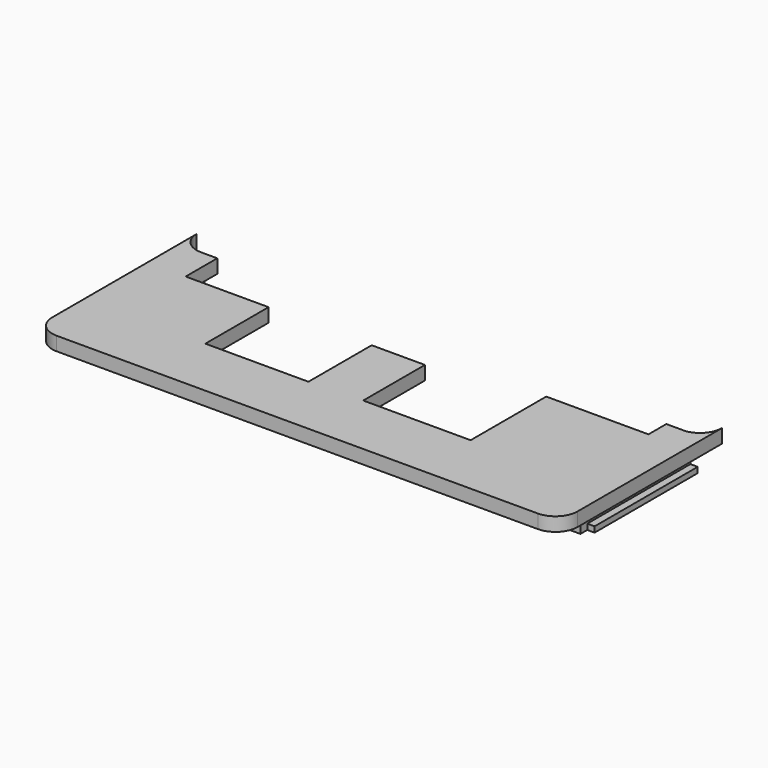
from build123d import *

# Parameters (mm, degrees)
PAD003_DEPTH  = 1.6
SKETCH011_W   = 1.3
SKETCH011_H   = 16
PAD004_DEPTH  = 2.25
SKETCH012_W   = 0.8
SKETCH012_H   = 0.65
SKETCH012_W_2 = 0.85
PAD005_DEPTH  = 15


with BuildPart() as part:
    # Sketch008 → Pad003 (new body)
    with BuildSketch(Plane.XY.offset(85)):
        with BuildLine():
            Line((30.57387, -6.02613), (30.57387, -27.02613))
            ThreePointArc((28, -29.6), (29.820001, -28.846131), (30.57387, -27.02613))
            Line((28, -29.6), (-28, -29.6))
            ThreePointArc((-30.57387, -27.02613), (-29.820001, -28.846131), (-28, -29.6))
            Line((-30.57387, -27.02613), (-30.57387, -6.02613))
            ThreePointArc((-30.57387, -6.02613), (-29.827263, -7.828603), (-28.02479, -8.575212))
            Line((-28.02479, -8.575212), (-26.12479, -8.575212))
            Line((-26.12479, -8.575212), (-26.12479, -13.175212))
            Line((-26.12479, -13.175212), (-16.47479, -13.175212))
            Line((-16.47479, -13.175212), (-16.47479, -22.375212))
            Line((-16.47479, -22.375212), (-4.47479, -22.375212))
            Line((-4.47479, -22.375212), (-4.47479, -13.175212))
            Line((-4.47479, -13.175212), (1.72521, -13.175212))
            Line((1.72521, -13.175212), (1.72521, -22.153704))
            Line((1.72521, -22.153704), (14.22521, -22.153704))
            Line((14.22521, -22.153704), (14.22521, -11.153704))
            Line((14.22521, -11.153704), (26.12521, -11.153704))
            Line((26.12521, -11.153704), (26.12521, -8.553704))
            Line((26.12521, -8.553704), (28.35521, -8.553704))
            ThreePointArc((28.35521, -8.553704), (29.940524, -7.707728), (30.57387, -6.02613))
        make_face()
    extrude(amount=PAD003_DEPTH)

    # Sketch011 → Pad004 (new body)
    with BuildSketch(Plane(origin=(0, 0, 85), x_dir=(1, 0, 0), z_dir=(0, 0, -1))):
        with Locations((-28.27479, 16.575212)):
            Rectangle(SKETCH011_W, SKETCH011_H)
        with Locations((28.27521, 16.553704)):
            Rectangle(SKETCH011_W, SKETCH011_H)
    extrude(amount=PAD004_DEPTH)

    # Sketch012 → Pad005 (new body)
    with BuildSketch(Plane(origin=(0, -8.553704, 85), x_dir=(-1, 0, 0), z_dir=(0, 1, 0))):
        with Locations((29.32479, -1.925)):
            Rectangle(SKETCH012_W, SKETCH012_H)
        with Locations((-29.35021, -1.925)):
            Rectangle(SKETCH012_W_2, SKETCH012_H)
    extrude(amount=-PAD005_DEPTH)


solid = part.part
